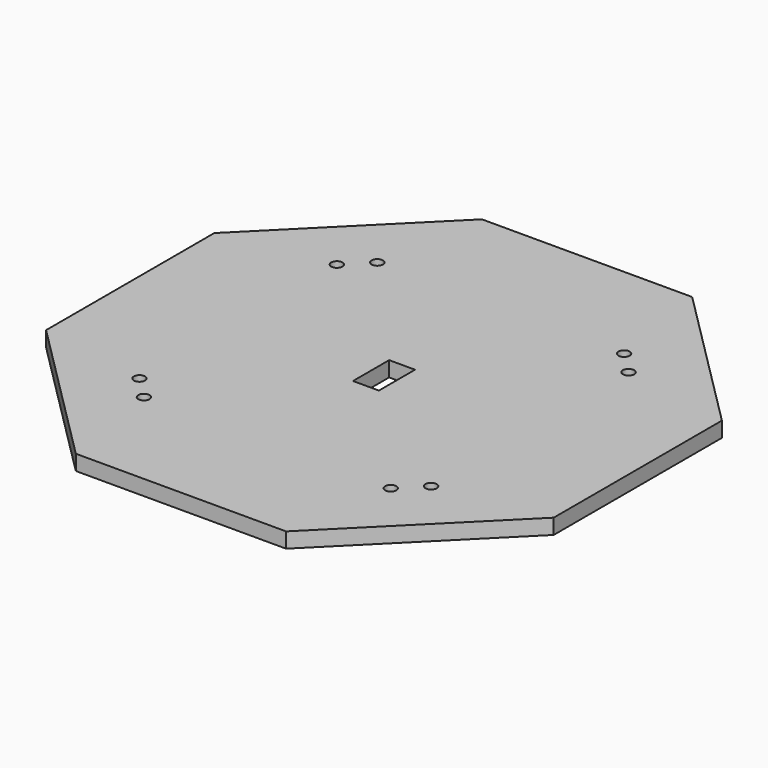
from build123d import *

# Parameters (mm, degrees)
F1_DEPTH = 3.048
F3_D     = 2.2606
F4_W     = 5.1865465939
F4_H     = 9.0437950566
F5_DEPTH = 25.4


with BuildPart() as f1:
    # F0 (on Top) → F1 (new body)
    with BuildSketch(Plane.XY):
        Polygon((21.0420489686, 50.8), (-21.0420489686, 50.8), (-50.8, 21.0420489686), (-50.8, -21.0420489686), (-21.0420489686, -50.8), (21.0420489686, -50.8), (50.8, -21.0420489686), (50.8, 21.0420489686), align=None)
    extrude(amount=F1_DEPTH)

    # F3 (through all)
    with Locations(Plane.XY.offset(3.048)):
        with Locations((-24.6957043329, 29.1858323935), (-29.1858323935, 24.6957043329), (-29.1858323935, -24.6957043329), (-24.6957043329, -29.1858323935), (24.6957043329, -29.1858323935), (29.1858323935, -24.6957043329), (29.1858323935, 24.6957043329), (24.6957043329, 29.1858323935)):
            Hole(F3_D / 2)

    # F4 (on face) → F5 (cut)
    with BuildSketch(Plane.XY.offset(3.048)):
        Rectangle(F4_W, F4_H)
    extrude(amount=-F5_DEPTH, mode=Mode.SUBTRACT)


solid = f1.part
